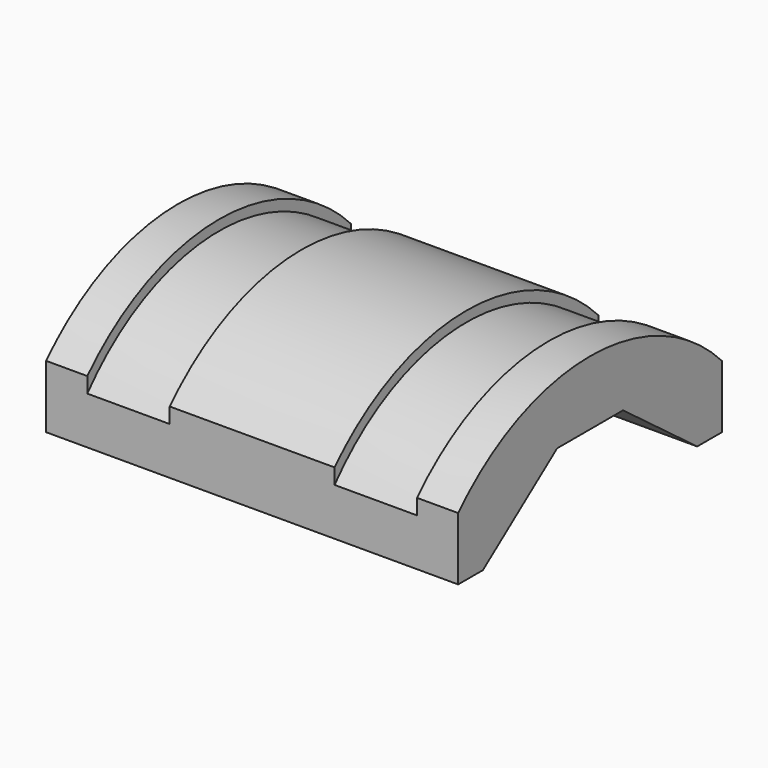
from build123d import *

# Parameters (mm, degrees)
F2_W     = 3
F2_H     = 3.049834
F3_DEPTH = 20


with BuildPart() as f1:
    # F0 (on Front) → F1 (revolve)
    with BuildSketch(Plane.XZ):
        Polygon((0, 11), (0, 7.5), (20, 7.5), (20, 11), (18, 11), (18, 10.5), (14, 10.5), (14, 11), (6, 11), (6, 10.5), (2, 10.5), (2, 11), align=None)
    revolve(axis=Axis((10, 0, 0), (-1, 0, 0)))

    # F2 (on face) → F3 (cut, through all)
    with BuildSketch(Plane(origin=(0, 0, 0), x_dir=(0, -1, 0), z_dir=(-1, 0, 0))):
        with Locations((-9.5, 6.024917)):
            Rectangle(F2_W, F2_H)
        Polygon((-8, 4.5), (-11, 4.5), (-11, -11), (11, -11), (11, 4.5), (8, 4.5), (6.5, 4.5), (-6.5, 4.5), align=None)
        Polygon((-2, 7.875), (-6.5, 4.5), (6.5, 4.5), (2, 7.875), align=None)
        with Locations((9.5, 6.024917)):
            Rectangle(F2_W, F2_H)
    extrude(amount=-F3_DEPTH, mode=Mode.SUBTRACT)


solid = f1.part
